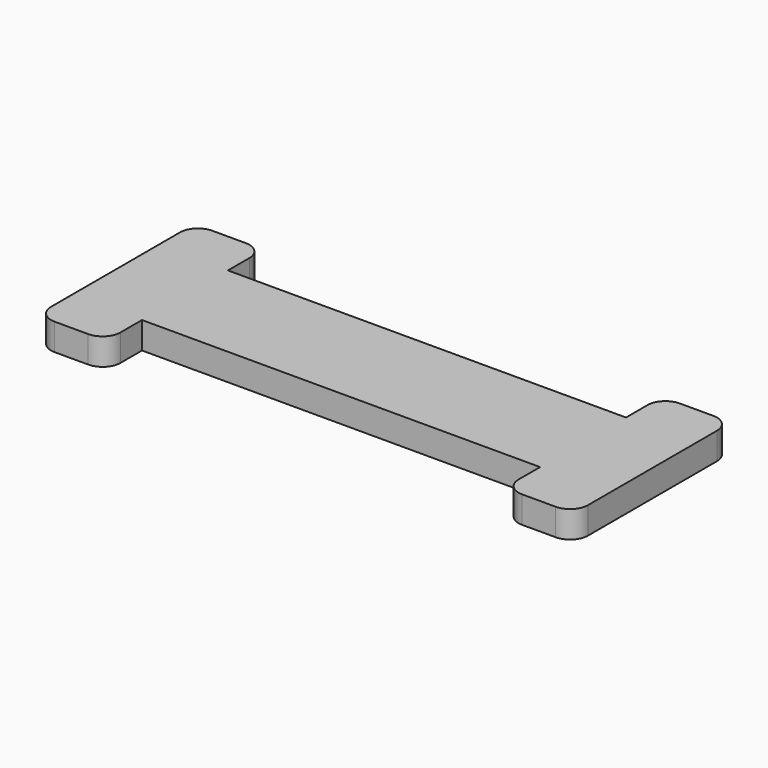
from build123d import *

# Parameters (mm, degrees)
F1_DEPTH = 6.35


with BuildPart() as f1:
    # F0 (on Top) → F1 (new body)
    with BuildSketch(Plane.XY):
        Polygon((0, 25.4), (0, 0), (16.421834, 0), (110.580266, 0), (127, 0), (127, 25.4), (110.580266, 25.4), (16.419734, 25.4), align=None)
        with BuildLine():
            Line((16.421834, 0), (0, 0))
            Line((0, 0), (0, -6.35))
            ThreePointArc((0, -6.35), (1.244054, -9.353413), (4.247467, -10.597467))
            Line((4.247467, -10.597467), (12.174367, -10.597467))
            ThreePointArc((12.174367, -10.597467), (15.17778, -9.353413), (16.421834, -6.35))
            Line((16.421834, -6.35), (16.421834, 0))
        make_face()
        with BuildLine():
            Line((0, 31.75), (0, 25.4))
            Line((0, 25.4), (16.419734, 25.4))
            Line((16.419734, 25.4), (16.419734, 31.75))
            ThreePointArc((16.419734, 31.75), (15.17568, 34.753413), (12.172267, 35.997467))
            Line((12.172267, 35.997467), (4.247467, 35.997467))
            ThreePointArc((4.247467, 35.997467), (1.244054, 34.753413), (0, 31.75))
        make_face()
        with BuildLine():
            Line((127, 0), (110.580266, 0))
            Line((110.580266, 0), (110.580266, -6.35))
            ThreePointArc((110.580266, -6.35), (111.82432, -9.353413), (114.827733, -10.597467))
            Line((114.827733, -10.597467), (122.752533, -10.597467))
            ThreePointArc((122.752533, -10.597467), (125.755946, -9.353413), (127, -6.35))
            Line((127, -6.35), (127, 0))
        make_face()
        with BuildLine():
            Line((110.580266, 31.75), (110.580266, 25.4))
            Line((110.580266, 25.4), (127, 25.4))
            Line((127, 25.4), (127, 31.75))
            ThreePointArc((127, 31.75), (125.755946, 34.753413), (122.752533, 35.997467))
            Line((122.752533, 35.997467), (114.827733, 35.997467))
            ThreePointArc((114.827733, 35.997467), (111.82432, 34.753413), (110.580266, 31.75))
        make_face()
    extrude(amount=F1_DEPTH)


solid = f1.part
